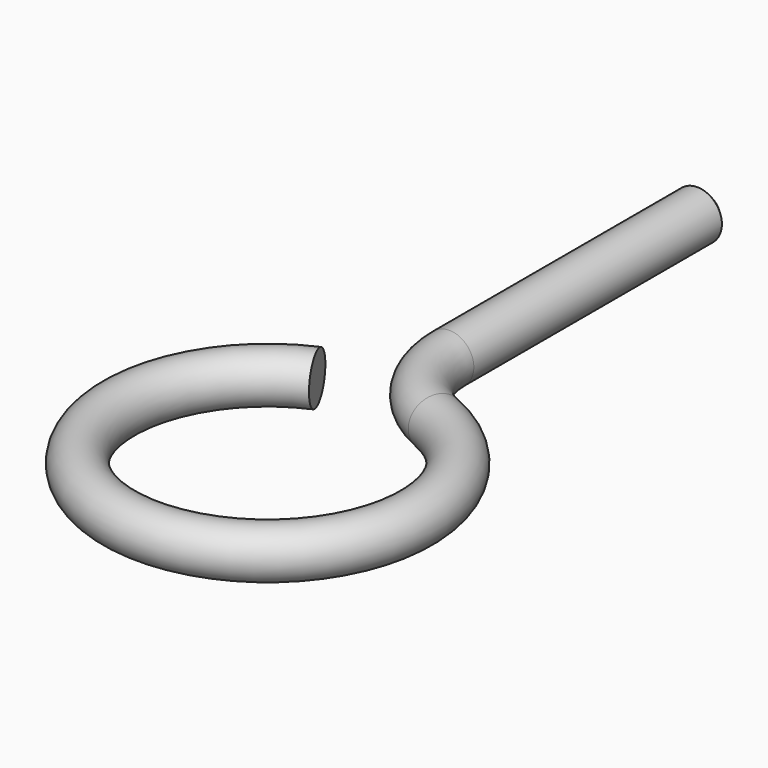
from build123d import *

# Parameters (mm, degrees)
F2_R    = 0.7874
F4_SIZE = 0.254


with BuildPart() as f3:
    # F3: sweep along a path in F0
    with BuildLine(Plane.XY) as f3_path:
        Line((0, 17.4625), (0, 7.2748389157))
        ThreePointArc((0, 7.2748389157), (0.5186044158, 5.5358197957), (1.905, 4.3649033494))
        ThreePointArc((1.905, 4.3649033494), (0, -4.7625), (-1.905, 4.3649033494))
    # F2 (on plane+point) → F3 (sweep)
    with BuildSketch(Plane.XZ.offset(-17.4625)):
        Circle(F2_R)
    sweep(path=f3_path.line)

    # F4
    f4_edges = [f3.edges().sort_by_distance(p)[0] for p in [
        (-0.7874, 17.4625, 0),
    ]]
    chamfer(f4_edges, length=F4_SIZE)


solid = f3.part
